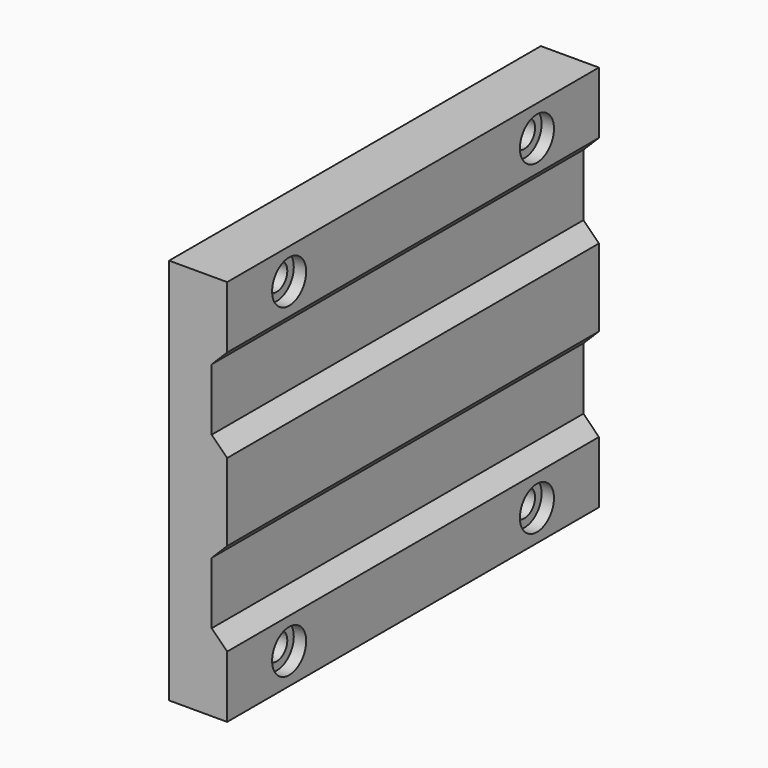
from build123d import *

# Parameters (mm, degrees)
F1_DEPTH = 76.2
F4_D     = 4.318
F4_DEPTH = 12.7
F4_TIP   = 1.2972580765
F5_R     = 3.4925
F5_R_2   = 2.159
F6_DEPTH = 2.032


with BuildPart() as f1:
    # F0 (on Front) → F1 (new body)
    with BuildSketch(Plane.XZ):
        Polygon((0, 63.5), (0, 0), (9.525, 0), (9.525, 10.16), (6.985, 12.7), (6.985, 22.86), (9.525, 25.4), (9.525, 38.1), (6.985, 40.64), (6.985, 50.8), (9.525, 53.34), (9.525, 63.5), align=None)
    extrude(amount=F1_DEPTH)

    # F4
    with Locations(Plane.YZ.offset(9.525)):
        with Locations((-63.5, 58.42), (-12.7, 58.42), (-63.5, 5.08), (-12.7, 5.08)):
            Hole(F4_D / 2, depth=F4_DEPTH)
            with Locations((0, 0, -(F4_DEPTH + F4_TIP / 2))):  # 118° drill point
                Cone(0, F4_D / 2, F4_TIP, mode=Mode.SUBTRACT)

    # F5 (on face) → F6 (cut)
    with BuildSketch(Plane.YZ.offset(9.525)):
        with Locations((-63.5, 58.42)):
            Circle(F5_R)
        with Locations((-12.7, 58.42)):
            Circle(F5_R)
        with Locations((-63.5, 5.08)):
            Circle(F5_R)
        with Locations((-63.5, 5.08)):
            Circle(F5_R_2, mode=Mode.SUBTRACT)
        with Locations((-12.7, 5.08)):
            Circle(F5_R)
        with Locations((-12.7, 5.08)):
            Circle(F5_R_2, mode=Mode.SUBTRACT)
    extrude(amount=-F6_DEPTH, mode=Mode.SUBTRACT)


solid = f1.part
